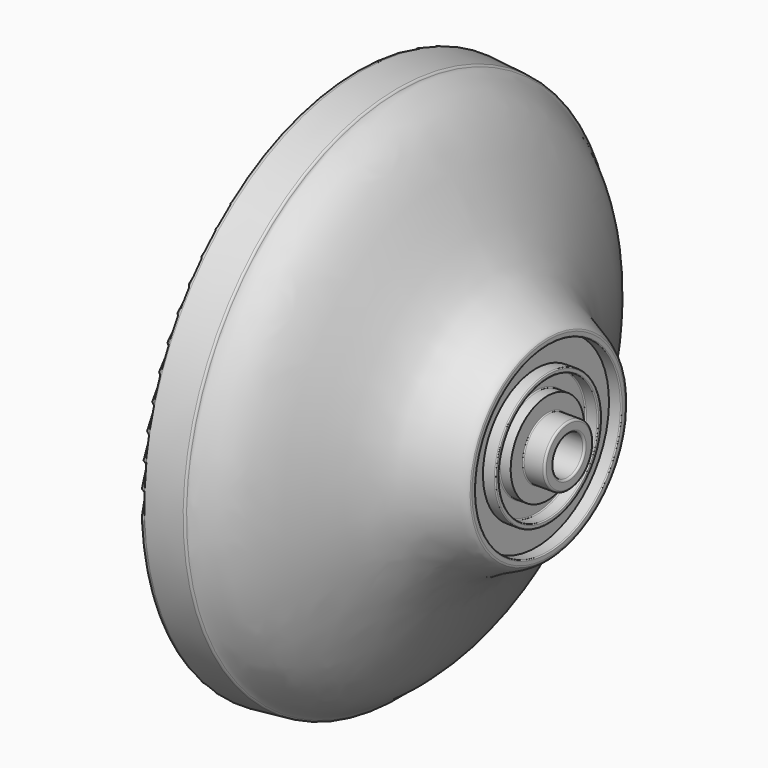
from build123d import *


with BuildPart() as f1:
    # F0 (on Front) → F1 (revolve)
    with BuildSketch(Plane.XZ):
        with BuildLine():
            ThreePointArc((22.25, 2.975), (22.1914213562, 3.1164213562), (22.05, 3.175))
            Line((22.05, 3.175), (20.1, 3.175))
            ThreePointArc((20.1, 3.175), (20.0292893219, 3.2042893219), (20, 3.275))
            Line((20, 3.275), (20, 4.8217329141))
            Line((20, 4.8217329141), (18.9, 4.8217329141))
            ThreePointArc((18.9, 4.8217329141), (18.8292893219, 4.851022236), (18.8, 4.9217329141))
            Line((18.8, 4.9217329141), (18.8, 6.377))
            ThreePointArc((18.8, 6.377), (18.8292893219, 6.4477106781), (18.9, 6.477))
            Line((18.9, 6.477), (20, 6.477))
            ThreePointArc((20, 6.477), (20.0707106781, 6.5062893219), (20.1, 6.577))
            Line((20.1, 6.577), (20.1, 6.85))
            ThreePointArc((20.1, 6.85), (20.0707106781, 6.9207106781), (20, 6.95))
            Line((20, 6.95), (18.8, 6.95))
            Line((18.8, 6.95), (18.8, 9.55))
            Line((18.8, 9.55), (20.0006234935, 9.55))
            ThreePointArc((20.0006234935, 9.55), (20.0711126994, 9.5790685411), (20.1006215376, 9.6493745628))
            Line((20.1006215376, 9.6493745628), (20.1029684052, 10.024603545))
            ThreePointArc((20.1029684052, 10.024603545), (20.0941646811, 10.1211963699), (20.0668772567, 10.2142720157))
            add(Edge.make_bspline(
                [(4.5447602637, 27.9274253725), (4.6713664841, 27.48134384), (9.3099304524, 25.6526622776), (12.9616430293, 11.9770249452), (19.6906012188, 10.9546805422), (20.0668772567, 10.2142720157)],
                knots=[0.025824967, 0.025824967, 0.025824967, 0.025824967, 0.2366377499, 0.7044316163, 1, 1, 1, 1], degree=3))
            ThreePointArc((4.5447602637, 27.9274253725), (4.4638334396, 28.0516142778), (4.3268078879, 28.1081477477))
            Line((4.3268078879, 28.1081477477), (0.5456815303, 28.4505809959))
            ThreePointArc((0.5456815303, 28.4505809959), (0.0834283339, 28.2282654292), (0.0601936713, 27.7158570187))
            Line((0.0601936713, 27.7158570187), (1.5651762801, 22.5587538258))
            ThreePointArc((1.5651762801, 22.5587538258), (1.6866614228, 22.4086605282), (1.8788447177, 22.3898930283))
            add(Edge.make_bspline(
                [(1.8788447177, 22.3898930283), (3.4212691123, 22.8655972216), (3.5810942293, 22.2359033355), (4.2621889152, 21.6147843748)],
                knots=[0.1289105121, 0.1289105121, 0.1289105121, 0.1289105121, 2.7151460925, 2.7151460925, 2.7151460925, 2.7151460925], degree=3))
            add(Edge.make_bspline(
                [(4.2621889152, 21.6147843748), (6.9295074791, 18.3382313699), (7.200149812, 20.1381836594), (9.5807658678, 18.3082741748), (10.4452366063, 16.356284881), (11.1250332984, 15.1909183277)],
                knots=[0, 0, 0, 0, 0.3802007269, 0.6378243951, 1, 1, 1, 1], degree=3))
            add(Edge.make_bspline(
                [(11.1250332984, 15.1909183277), (12.2836973635, 13.3592937673), (15.0897828005, 10.1086941946), (16.0061548158, 4.9094891002), (16.2660960248, 3.3753435331), (16.8365100225, 2.3945474061), (16.7940873763, 2.1684404389)],
                knots=[0, 0, 0, 0, 0.3572498244, 0.6677928603, 0.852380785, 0.9744750619, 0.9744750619, 0.9744750619, 0.9744750619], degree=3))
            ThreePointArc((16.7940873763, 2.1684404389), (16.8154177474, 2.0861409517), (16.892372422, 2.05))
            Line((16.892372422, 2.05), (22.05, 2.05))
            ThreePointArc((22.05, 2.05), (22.1914213562, 2.1085786438), (22.25, 2.25))
            Line((22.25, 2.25), (22.25, 2.975))
        make_face()
    revolve(axis=Axis((14.4642590044, 0, 0), (1, 0, 0)))


solid = f1.part
